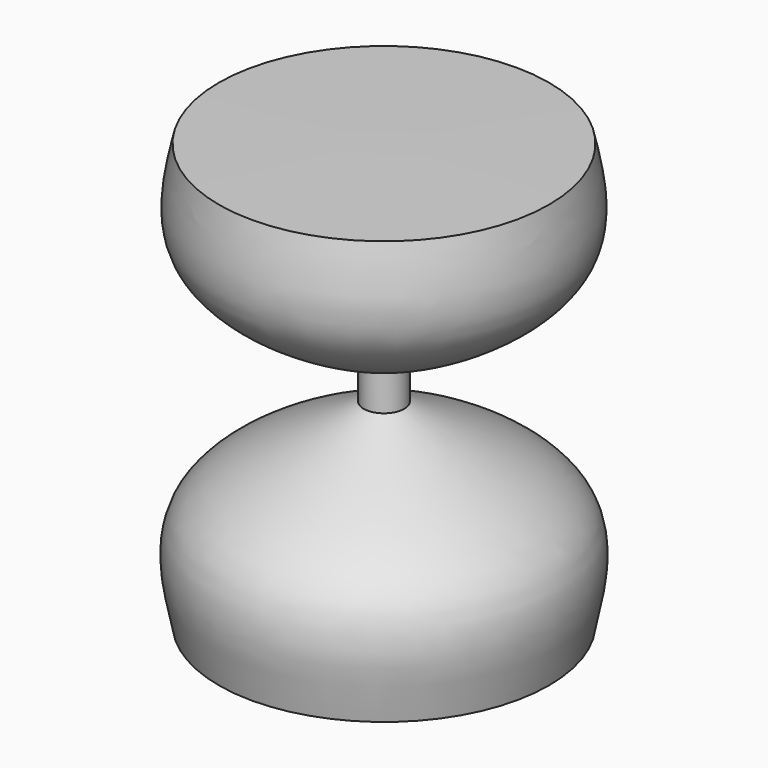
from build123d import *


with BuildPart() as f1:
    # F0 (on Front) → F1 (revolve)
    with BuildSketch(Plane.XZ):
        with BuildLine():
            Line((29.9984914081, 38.3592376454), (0, 38.6600918222))
            Line((0, 38.6600918222), (0, -38.5096628257))
            Line((0, -38.5096628257), (30, -38.5096628257))
            add(Edge.make_bspline(
                [(30, -38.5096628257), (31.2994144809, -32.242824973), (35.5031747474, -16.7180658829), (13.3811968275, -8.2307562865), (3.6735255424, -2.8581387695)],
                knots=[0, 0, 0, 0, 0.4332836876, 1, 1, 1, 1], degree=3))
            Line((3.6735255424, -2.8581387695), (3.6735255424, 4.0615666869))
            add(Edge.make_bspline(
                [(29.9984914081, 38.3592376454), (31.3684071017, 32.3642731493), (34.5988834741, 18.2272052636), (14.9754477965, 9.2385139102), (3.6735255424, 4.0615666869)],
                knots=[0, 0, 0, 0, 0.4240599638, 1, 1, 1, 1], degree=3))
        make_face()
    revolve(axis=Axis((0, 0, 0.0752144983), (0, 0, -1)))


solid = f1.part
